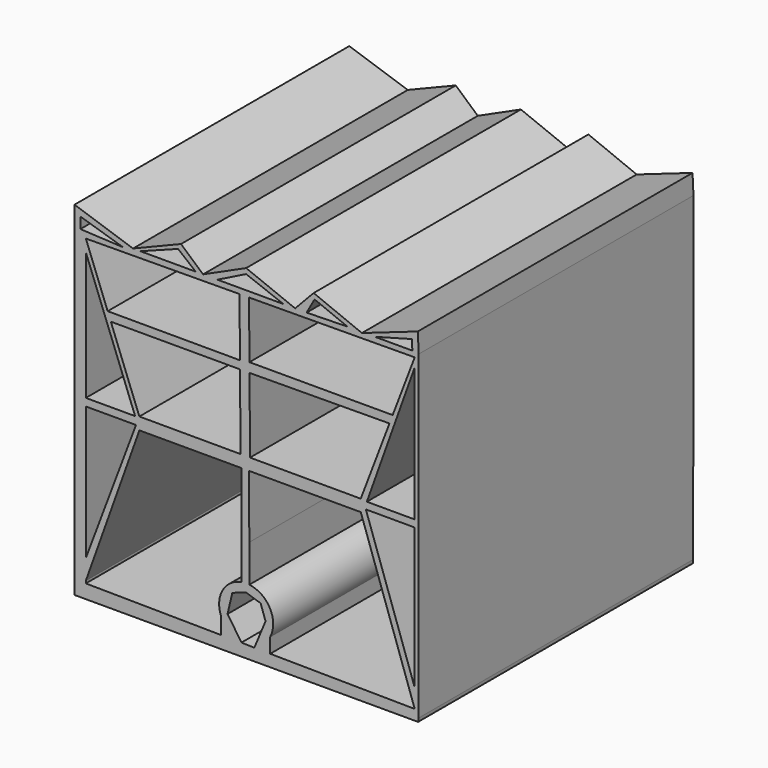
from build123d import *

# Parameters (mm, degrees)
F1_DEPTH = 152.4


with BuildPart() as f1:
    # F0 (on Front) → F1 (new body)
    with BuildSketch(Plane.XZ):
        Polygon((-76.169543, 76.035284), (-76.169543, 67.358479), (-76.169543, -76.455206), (76.309301, -76.455206), (76.449059, -74.917838), (76.588824, 67.358479), (76.161504, 76.035284), (51.361255, 67.358479), (29.954717, 76.035284), (21.731475, 67.358479), (0, 76.035284), (-19.123683, 67.358479), (-28.913258, 76.035284), (-50.189264, 67.358479), align=None)
        Polygon((3.625234, -71.103098), (-2.087809, -70.939283), (-8.245876, -61.780341), (-6.149467, -52.835658), (0, -50.705924), (6.428989, -52.835658), (8.607126, -59.124887), align=None, mode=Mode.SUBTRACT)
        Polygon((-71.148954, -1.168579), (-48.882278, -1.168579), (-71.148954, -60.398426), align=None, mode=Mode.SUBTRACT)
        with BuildLine():
            Line((-11.182051, -70.944449), (-71.148954, -70.30195))
            Line((-71.148954, -70.30195), (-71.148954, -69.259472))
            Line((-71.148954, -69.259472), (-47.38087, -2.771367))
            Line((-47.38087, -2.771367), (-2.087809, -2.771367))
            Line((-2.087809, -2.771367), (-2.087809, -30.61372))
            Line((-2.087809, -30.61372), (-2.087809, -47.310491))
            ThreePointArc((-2.087809, -47.310491), (-10.455808, -53.241436), (-11.182051, -63.472373))
            Line((-11.182051, -63.472373), (-11.182051, -70.944449))
        make_face(mode=Mode.SUBTRACT)
        with BuildLine():
            Line((1.213909, -2.771367), (50.868321, -2.771367))
            Line((50.868321, -2.771367), (74.797623, -71.865655))
            Line((74.797623, -71.865655), (10.656672, -71.178434))
            Line((10.656672, -71.178434), (10.656672, -64.63617))
            ThreePointArc((10.656672, -64.63617), (10.598486, -53.50252), (1.412784, -47.210906))
            Line((1.412784, -47.210906), (1.412784, -30.61372))
            Line((1.412784, -30.61372), (1.213909, -2.771367))
        make_face(mode=Mode.SUBTRACT)
        Polygon((74.797623, -63.553585), (53.123125, -0.969895), (74.797623, -0.991187), align=None, mode=Mode.SUBTRACT)
        Polygon((-71.148954, 2.174516), (-71.148954, 59.095334), (-49.278473, 2.174516), align=None, mode=Mode.SUBTRACT)
        Polygon((-2.493593, 2.557827), (-47.399332, 2.626492), (-60.058687, 35.574137), (-2.729424, 35.574137), align=None, mode=Mode.SUBTRACT)
        Polygon((-54.496676, 66.376239), (-73.553719, 67.358479), (-73.553719, 72.249986), align=None, mode=Mode.SUBTRACT)
        Polygon((-61.455923, 39.210627), (-71.148954, 64.438023), (-2.939075, 64.925237), (-2.754758, 39.120867), align=None, mode=Mode.SUBTRACT)
        Polygon((-22.386873, 67.358479), (-46.926074, 67.358479), (-30.218534, 73.685788), align=None, mode=Mode.SUBTRACT)
        Polygon((50.849744, 2.47626), (1.725206, 2.551376), (1.489346, 35.571639), (63.597905, 36.015273), align=None, mode=Mode.SUBTRACT)
        Polygon((53.563669, 2.172005), (74.797623, 61.571211), (74.797623, 2.151146), align=None, mode=Mode.SUBTRACT)
        Polygon((1.279462, 64.95537), (74.797623, 65.4805), (65.016477, 39.747379), (1.459519, 39.747379), align=None, mode=Mode.SUBTRACT)
        Polygon((16.510369, 67.358479), (-12.727827, 67.358479), (0, 73.685788), align=None, mode=Mode.SUBTRACT)
        Polygon((44.950325, 67.766275), (26.822057, 67.358479), (30.346299, 73.685788), align=None, mode=Mode.SUBTRACT)
        Polygon((73.713515, 67.766275), (57.104468, 67.766275), (73.681489, 72.249986), align=None, mode=Mode.SUBTRACT)
    extrude(amount=F1_DEPTH)


solid = f1.part
